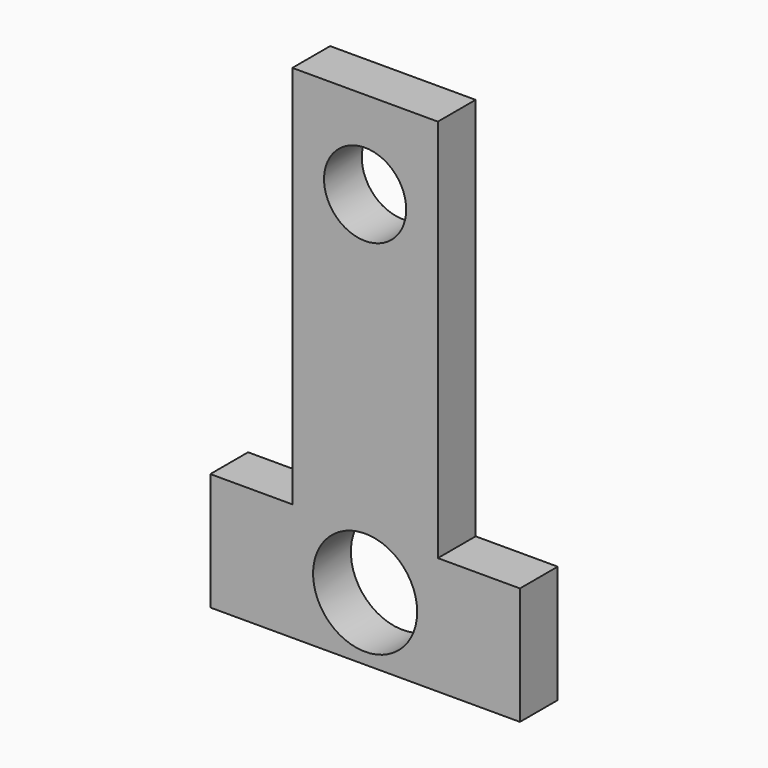
from build123d import *

# Parameters (mm, degrees)
F2_R     = 4.88099
F3_DEPTH = 5.6077
F4_DEPTH = 25.4
F1_R     = 6.18197
F5_DEPTH = 25.4


with BuildPart() as f3:
    # F2 (on face) → F3 (new body)
    with BuildSketch(Plane.XZ):
        Polygon((8.64374, 22.38507), (0, 22.38507), (-8.64374, 22.38507), (-8.64374, -23.271605), (-18.395651, -23.271605), (-18.395651, -37.234571), (0, -37.234571), (18.395651, -37.234571), (18.395651, -23.271605), (8.64374, -23.271605), align=None)
        with Locations((0, 11.968255)):
            Circle(F2_R, mode=Mode.SUBTRACT)
        with Locations((0, 11.968255)):
            Circle(F2_R)
    extrude(amount=F3_DEPTH)

    # F2 (on face) → F4 (cut)
    with BuildSketch(Plane.XZ):
        with Locations((0, 11.968255)):
            Circle(F2_R)
    extrude(amount=F4_DEPTH, mode=Mode.SUBTRACT)

    # F1 (on face) → F5 (cut)
    with BuildSketch(Plane.XZ):
        with Locations((0, -29.699003)):
            Circle(F1_R)
    extrude(amount=F5_DEPTH, mode=Mode.SUBTRACT)


solid = f3.part
